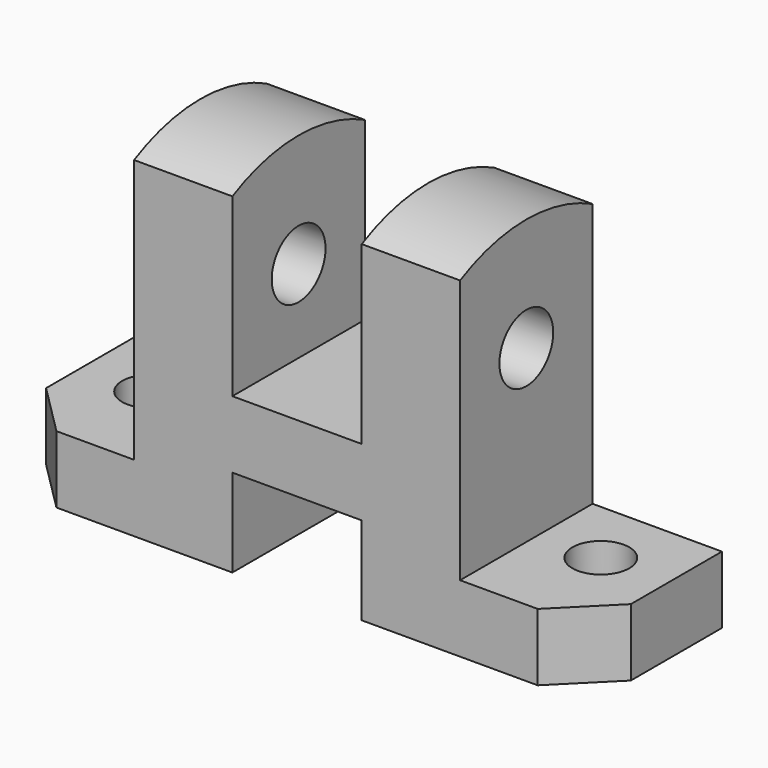
from build123d import *

# Parameters (mm, degrees)
F1_DEPTH = 40.64
F2_SIZE  = 25.4
F3_R     = 16.51
F4_DEPTH = 160.02
F5_R     = 13.97
F6_DEPTH = 33.02


with BuildPart() as f1:
    # F0 (on Front) → F1 (new body, symmetric)
    with BuildSketch(Plane.XZ):
        Polygon((-143.51, -43.18), (-31.75, -43.18), (-31.75, 0), (0, 0), (31.75, 0), (31.75, -43.18), (143.51, -43.18), (143.51, -10.16), (80.01, -10.16), (80.01, 139.7), (31.75, 139.7), (31.75, 33.02), (-31.75, 33.02), (-31.75, 139.7), (-80.01, 139.7), (-80.01, -10.16), (-143.51, -10.16), align=None)
    extrude(amount=F1_DEPTH, both=True)

    # F2
    f2_edges = [f1.edges().sort_by_distance(p)[0] for p in [
        (143.51, -40.64, -26.67),
        (-143.51, -40.64, -26.67),
    ]]
    chamfer(f2_edges, length=F2_SIZE)

    # F3 (on face) → F4 (cut)
    with BuildSketch(Plane.YZ.offset(80.01)):
        with BuildLine():
            ThreePointArc((-40.64, 119.38), (0, 129.212937), (40.64, 119.38))
            Line((40.64, 119.38), (40.64, 139.7))
            Line((40.64, 139.7), (-40.64, 139.7))
            Line((-40.64, 139.7), (-40.64, 119.38))
        make_face()
        with Locations((0, 73.66)):
            Circle(F3_R)
    extrude(amount=-F4_DEPTH, mode=Mode.SUBTRACT)

    # F5 (on face) → F6 (cut)
    with BuildSketch(Plane.XY.offset(-10.16)):
        with Locations((110.49, 7.62)):
            Circle(F5_R)
        with Locations((-110.49, 7.62)):
            Circle(F5_R)
    extrude(amount=-F6_DEPTH, mode=Mode.SUBTRACT)


solid = f1.part
